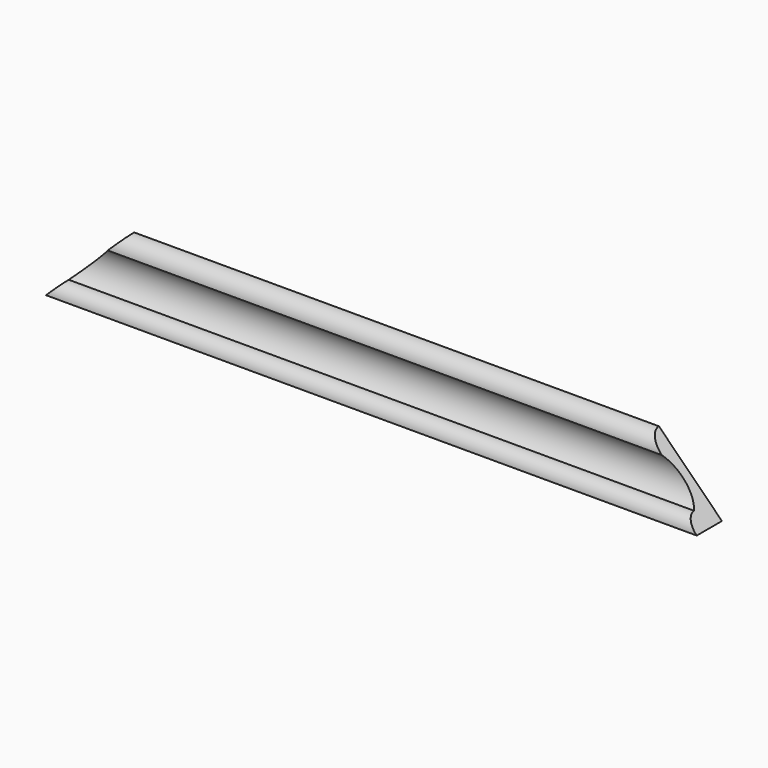
from build123d import *

# Parameters (mm, degrees)
PAD008_DEPTH = 40
PAD007_DEPTH = 40
PAD_DEPTH    = 310


with BuildPart() as body_decoration_bottom_cut_right:
    # Sketch008 → Pad008 (new body)
    with BuildSketch(Plane(origin=(370, 0, 60), x_dir=(1, 0, 0), z_dir=(0, -1, 0))):
        Polygon((-40, 40), (0, 0), (0, 40), align=None)
    extrude(amount=PAD008_DEPTH)


with BuildPart() as body_decoration_bottom_cut_left:
    # Sketch007 → Pad007 (new body)
    with BuildSketch(Plane(origin=(60, 0, 60), x_dir=(1, 0, 0), z_dir=(0, -1, 0))):
        Polygon((0, 0), (40, 40), (0, 40), align=None)
    extrude(amount=PAD007_DEPTH)


with BuildPart() as cut_decoration_bottom:
    # Sketch → Pad (new body)
    with BuildSketch(Plane(origin=(60, 0, 60), x_dir=(0, 1, 0), z_dir=(1, 0, 0))):
        with BuildLine():
            Line((0, 30), (0, 0))
            Line((0, 0), (-15, 0))
            ThreePointArc((-9, 6), (-13.242641, 4.242641), (-15, 0))
            ThreePointArc((-9, 6), (-4.435882, 14.080692), (-7, 23))
            ThreePointArc((0, 30), (-4.949747, 27.949747), (-7, 23))
        make_face()
    extrude(amount=PAD_DEPTH)

    # Cut: cut Body, Decoration, Bottom, Cut, Left
    add(body_decoration_bottom_cut_left.part, mode=Mode.SUBTRACT)

    # Cut001: cut Body, Decoration, Bottom, Cut, Right
    add(body_decoration_bottom_cut_right.part, mode=Mode.SUBTRACT)


solid = cut_decoration_bottom.part
